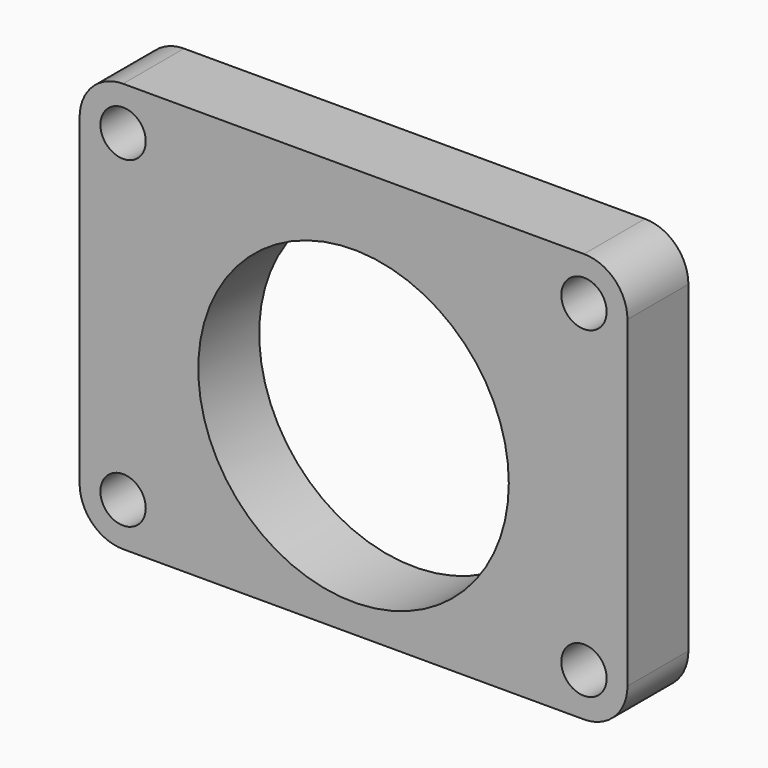
from build123d import *

# Parameters (mm, degrees)
F0_R     = 4.9149
F0_R_2   = 33.655
F1_DEPTH = 16.51


with BuildPart() as f1:
    # F0 (on Front) → F1 (new body)
    with BuildSketch(Plane.XZ):
        with BuildLine():
            Line((49.9491, 44.40555), (-49.9491, 44.40555))
            ThreePointArc((-49.9491, 44.40555), (-56.61245, 41.6455), (-59.3725, 34.98215))
            Line((-59.3725, 34.98215), (-59.3725, -34.98215))
            ThreePointArc((-59.3725, -34.98215), (-56.61245, -41.6455), (-49.9491, -44.40555))
            Line((-49.9491, -44.40555), (49.9491, -44.40555))
            ThreePointArc((49.9491, -44.40555), (56.61245, -41.6455), (59.3725, -34.98215))
            Line((59.3725, -34.98215), (59.3725, 34.98215))
            ThreePointArc((59.3725, 34.98215), (56.61245, 41.6455), (49.9491, 44.40555))
        make_face()
        with Locations((-49.9491, -34.98215)):
            Circle(F0_R, mode=Mode.SUBTRACT)
        with Locations((0, -4.6228)):
            Circle(F0_R_2, mode=Mode.SUBTRACT)
        with Locations((49.9491, -34.98215)):
            Circle(F0_R, mode=Mode.SUBTRACT)
        with Locations((-49.9491, 34.98215)):
            Circle(F0_R, mode=Mode.SUBTRACT)
        with Locations((49.9491, 34.98215)):
            Circle(F0_R, mode=Mode.SUBTRACT)
    extrude(amount=F1_DEPTH)


solid = f1.part
